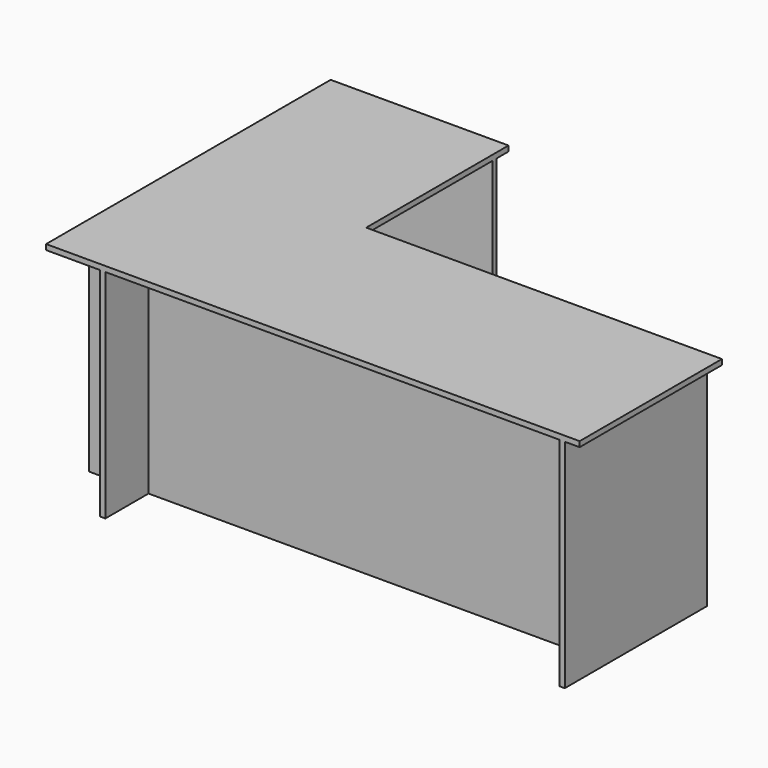
from build123d import *

# Parameters (mm, degrees)
F0_W      = 1200
F0_H      = 600
F1_DEPTH  = 18
F2_W      = 600
F2_H      = 1200
F3_DEPTH  = 18
F4_W      = 18
F4_H      = 600
F4_W_2    = 600
F4_H_2    = 18
F5_DEPTH  = 732
F6_W      = 18
F6_H      = 1132
F7_DEPTH  = 732
F8_DEPTH  = 18
F9_W      = 1732
F9_H      = 18
F10_DEPTH = 732


with BuildPart() as f1:
    # F0 (on Top) → F1 (new body)
    with BuildSketch(Plane.XY):
        with Locations((600, 300)):
            Rectangle(F0_W, F0_H)
    extrude(amount=F1_DEPTH)

    # F2 (on Top) → F3 (join)
    with BuildSketch(Plane.XY):
        with Locations((-300, 600)):
            Rectangle(F2_W, F2_H)
    extrude(amount=F3_DEPTH)

    # F4 (on face) → F5 (join)
    with BuildSketch(Plane(origin=(0, 0, 0), x_dir=(1, 0, 0), z_dir=(0, 0, -1))):
        with Locations((1141, -300)):
            Rectangle(F4_W, F4_H)
        with Locations((-300, -1141)):
            Rectangle(F4_W_2, F4_H_2)
    extrude(amount=F5_DEPTH)

    # F6 (on face) → F7 (join)
    with BuildSketch(Plane(origin=(0, 0, 0), x_dir=(1, 0, 0), z_dir=(0, 0, -1))):
        with Locations((-409, -566)):
            Rectangle(F6_W, F6_H)
    extrude(amount=F7_DEPTH)

    # F7_face (on face) → F8 (join)
    with BuildSketch(Plane(origin=(259.6, 406.4, 0), x_dir=(1, 0, 0), z_dir=(0, 0, -1))):
        Polygon((872.4, 406.4), (-659.6, 406.4), (-659.6, -725.6), (-259.6, -725.6), (-259.6, -193.6), (872.4, -193.6), align=None)
    extrude(amount=-F8_DEPTH)

    # F9 (on face) → F10 (join)
    with BuildSketch(Plane(origin=(0, 0, 0), x_dir=(1, 0, 0), z_dir=(0, 0, -1))):
        with Locations((266, -191)):
            Rectangle(F9_W, F9_H)
    extrude(amount=F10_DEPTH)


solid = f1.part
